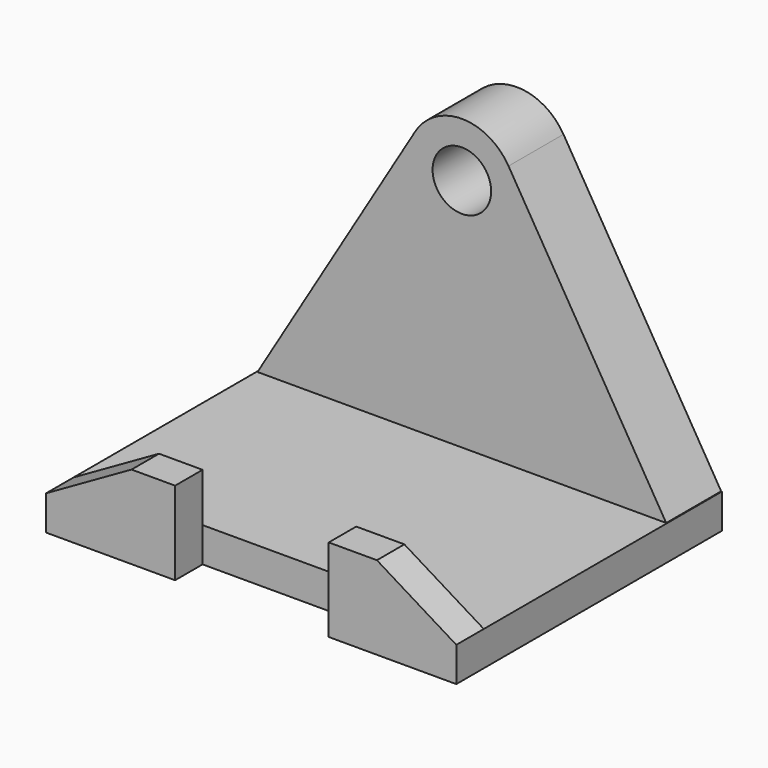
from build123d import *

# Parameters (mm, degrees)
F0_W     = 35.83182
F0_H     = 3.02196
F1_DEPTH = 26
F2_R     = 2.558205
F3_DEPTH = 6
F5_DEPTH = 3


with BuildPart() as f1:
    # F0 (on Front) → F1 (new body)
    with BuildSketch(Plane.XZ):
        with Locations((17.91591, 1.51098)):
            Rectangle(F0_W, F0_H)
    extrude(amount=F1_DEPTH)

    # F2 (on Front) → F3 (join)
    with BuildSketch(Plane.XZ):
        with BuildLine():
            Line((0, 2.911769), (35.83182, 2.911769))
            Line((35.83182, 2.911769), (21.992884, 25.98811))
            ThreePointArc((21.992884, 25.98811), (17.91591, 28.297043), (13.838936, 25.98811))
            Line((13.838936, 25.98811), (0, 2.911769))
        make_face()
        with Locations((17.91591, 23.543139)):
            Circle(F2_R, mode=Mode.SUBTRACT)
    extrude(amount=F3_DEPTH)

    # F4 (on face) → F5 (join)
    with BuildSketch(Plane.XZ.offset(26)):
        Polygon((0, 3.02196), (0, 0), (11.269107, 0), (11.269107, 7.273588), (7.463317, 7.273588), align=None)
        Polygon((24.689507, 0), (35.83182, 0), (35.83182, 3.02196), (28.895905, 7.273588), (24.689507, 7.273588), align=None)
    extrude(amount=F5_DEPTH)


solid = f1.part
